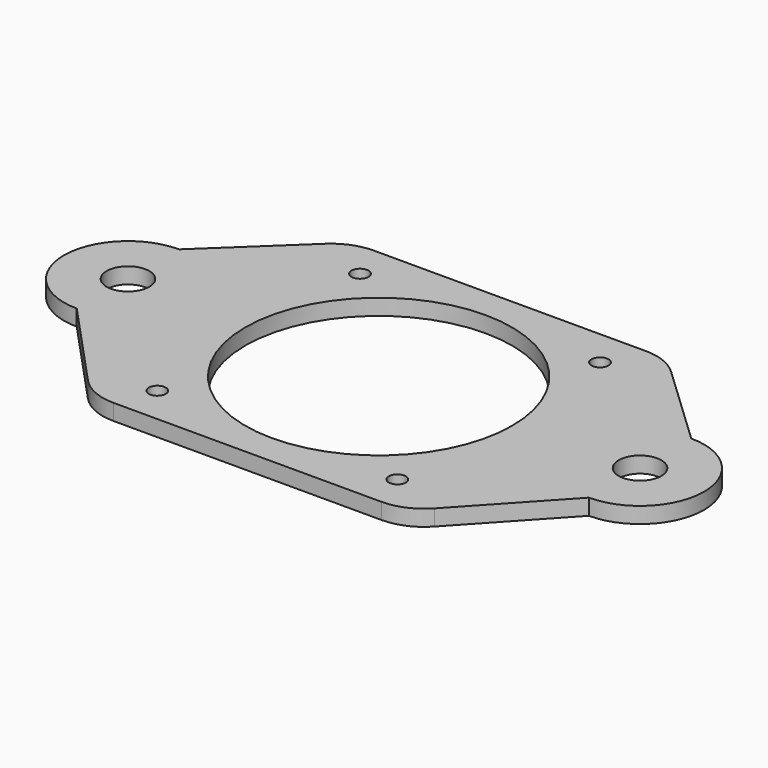
from build123d import *

# Parameters (mm, degrees)
SKETCH_R   = 4
SKETCH_R_2 = 1.6
SKETCH_R_3 = 25
PAD_DEPTH  = 3
FILLET_R   = 10


with BuildPart() as part:
    # Sketch → Pad (new body)
    with BuildSketch(Plane.XY):
        with BuildLine():
            ThreePointArc((0, 12), (-12, 0), (0, -12))
            Line((0, -12), (18.5, -32))
            Line((77.5, -32), (18.5, -32))
            Line((96, -12), (77.5, -32))
            ThreePointArc((96, -12), (108, 0), (96, 12))
            Line((77.5, 29.5), (96, 12))
            Line((18.5, 29.5), (77.5, 29.5))
            Line((18.5, 29.5), (0, 12))
        make_face()
        Circle(SKETCH_R, mode=Mode.SUBTRACT)
        with Locations((96, 0)):
            Circle(SKETCH_R, mode=Mode.SUBTRACT)
        with Locations((25.5, -25)):
            Circle(SKETCH_R_2, mode=Mode.SUBTRACT)
        with Locations((70.5, -25)):
            Circle(SKETCH_R_2, mode=Mode.SUBTRACT)
        with Locations((25.5, 22.5)):
            Circle(SKETCH_R_2, mode=Mode.SUBTRACT)
        with Locations((70.5, 22.5)):
            Circle(SKETCH_R_2, mode=Mode.SUBTRACT)
        with Locations((48, -1.25)):
            Circle(SKETCH_R_3, mode=Mode.SUBTRACT)
    extrude(amount=PAD_DEPTH)

    # Fillet
    fillet_edges = [part.edges().sort_by_distance(p)[0] for p in [
        (77.5, -32, 1.5),
        (18.5, -32, 1.5),
        (77.5, 29.5, 1.5),
        (18.5, 29.5, 1.5),
    ]]
    fillet(fillet_edges, radius=FILLET_R)


solid = part.part
